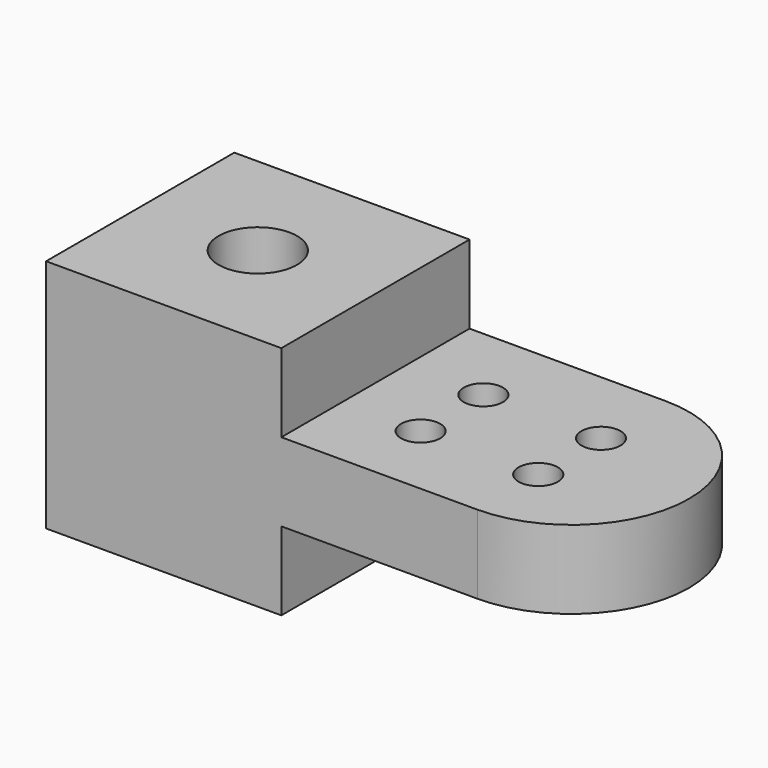
from build123d import *

# Parameters (mm, degrees)
F0_W     = 38.1
F0_H     = 38.1
F1_DEPTH = 19.05
F0_W_2   = 31.75
F2_DEPTH = 6.35
F4_D     = 12.7
F6_D     = 6.35


with BuildPart() as f1:
    # F0 (on Top) → F1 (new body, symmetric)
    with BuildSketch(Plane.XY):
        with Locations((19.05, 19.05)):
            Rectangle(F0_W, F0_H)
    extrude(amount=F1_DEPTH, both=True)

    # F0 (on Top) → F2 (join, symmetric)
    with BuildSketch(Plane.XY):
        with Locations((53.975, 19.05)):
            Rectangle(F0_W_2, F0_H)
        with BuildLine():
            Line((69.85, 38.1), (69.85, 0))
            ThreePointArc((69.85, 0), (88.9, 19.05), (69.85, 38.1))
        make_face()
    extrude(amount=F2_DEPTH, both=True)

    # F4 (through all)
    with Locations(Plane.XY.offset(19.05)):
        with Locations((19.05, 19.05)):
            Hole(F4_D / 2)

    # F6 (through all)
    with Locations(Plane.XY.offset(6.35)):
        with Locations((50.8, 25.024423), (50.8, 12.324423), (69.85, 12.324423), (69.85, 25.024423)):
            Hole(F6_D / 2)


solid = f1.part
